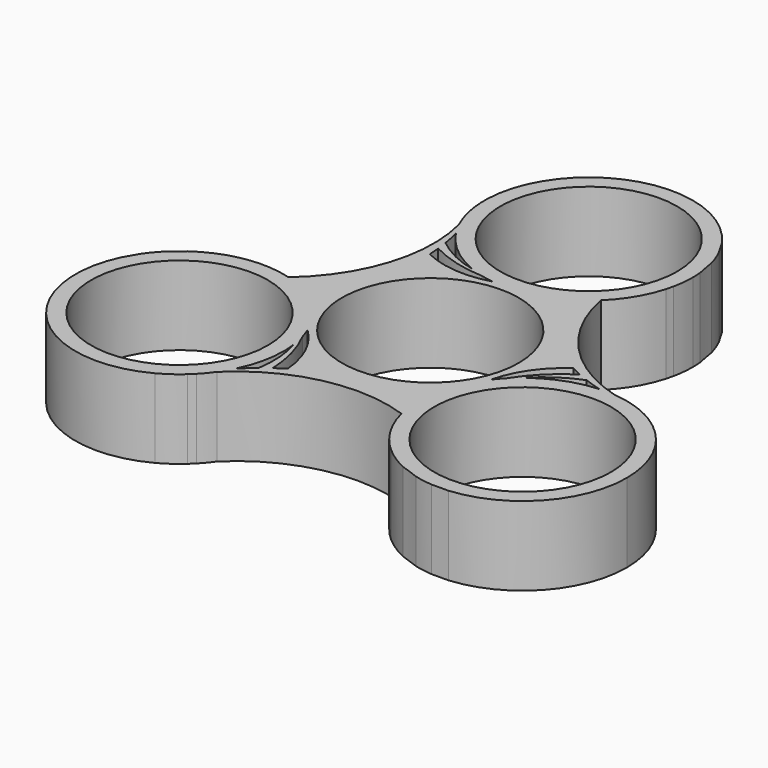
from build123d import *

# Parameters (mm, degrees)
F0_R     = 11.2
F1_DEPTH = 10


with BuildPart() as f1:
    # F0 (on Top) → F1 (new body)
    with BuildSketch(Plane.XY):
        with BuildLine():
            ThreePointArc((-3.260381, 12.308222), (-4.08829, 12.548299), (-4.898764, 12.841902))
            ThreePointArc((-4.898764, 12.841902), (-7.873837, 13.885182), (-10.533641, 15.577793))
            ThreePointArc((-10.533641, 15.577793), (-10.432312, 14.889978), (-10.350403, 14.199581))
            ThreePointArc((-10.350403, 14.199581), (-6.9123, 12.853141), (-3.260381, 12.308222))
        make_face()
        with BuildLine():
            ThreePointArc((-10.999331, 17.801648), (-11.517235, 18.649945), (-11.969844, 19.534805))
            ThreePointArc((-11.969844, 19.534805), (-12.253411, 8.962243), (-18.075311, 0.132465))
            ThreePointArc((-18.075311, 0.132465), (-16.04011, -0.642041), (-14.159937, -1.740609))
            ThreePointArc((-14.159937, -1.740609), (-11.356021, 4.229127), (-10.233904, 10.7284))
            ThreePointArc((-10.233904, 10.7284), (-10.217244, 11.71927), (-10.240391, 12.710009))
            ThreePointArc((-10.240391, 12.710009), (-10.284122, 13.455628), (-10.350403, 14.199581))
            ThreePointArc((-10.350403, 14.199581), (-10.432312, 14.889978), (-10.533641, 15.577793))
            ThreePointArc((-10.533641, 15.577793), (-10.740872, 16.695084), (-10.999331, 17.801648))
        make_face()
        with BuildLine():
            ThreePointArc((-25.815076, 0.0045), (-27.634187, -0.740376), (-29.322511, -1.747138))
            ThreePointArc((-29.322511, -1.747138), (-30.235928, -2.541319), (-31.167579, -3.314027))
            ThreePointArc((-31.167579, -3.314027), (-31.944836, -4.181143), (-32.642648, -5.113387))
            Line((-32.642648, -5.113387), (-33.685691, -6.940824))
            ThreePointArc((-33.685691, -6.940824), (-30.831382, -22.116455), (-15.530856, -24.199898))
            ThreePointArc((-15.530856, -24.199898), (-14.161107, -23.359441), (-12.903641, -22.358761))
            ThreePointArc((-12.903641, -22.358761), (-12.582952, -22.041715), (-12.254476, -21.732744))
            ThreePointArc((-12.254476, -21.732744), (-11.562129, -20.959176), (-10.932716, -20.133592))
            ThreePointArc((-10.932716, -20.133592), (-10.392709, -19.299191), (-9.917014, -18.426525))
            ThreePointArc((-9.917014, -18.426525), (-8.886316, -15.568046), (-8.536572, -12.549615))
            ThreePointArc((-8.536572, -12.549615), (-8.57048, -11.604081), (-8.672031, -10.663405))
            ThreePointArc((-8.672031, -10.663405), (-8.823001, -9.814713), (-9.029042, -8.977684))
            ThreePointArc((-9.029042, -8.977684), (-9.262483, -8.232543), (-9.539575, -7.50251))
            ThreePointArc((-9.539575, -7.50251), (-9.896819, -6.7135), (-10.305036, -5.949615))
            ThreePointArc((-10.305036, -5.949615), (-12.002273, -3.634267), (-14.159937, -1.740609))
            ThreePointArc((-14.159937, -1.740609), (-16.04011, -0.642041), (-18.075311, 0.132465))
            ThreePointArc((-18.075311, 0.132465), (-21.503799, 0.648332), (-24.948347, 0.253685))
            ThreePointArc((-24.948347, 0.253685), (-25.380161, 0.123701), (-25.815076, 0.0045))
        make_face()
        with Locations((-21.736572, -12.549615)):
            Circle(F0_R, mode=Mode.SUBTRACT)
        with BuildLine():
            ThreePointArc((-10.240391, 12.710009), (-10.217244, 11.71927), (-10.233904, 10.7284))
            ThreePointArc((-10.233904, 10.7284), (-5.051167, 10.738809), (0, 11.899231))
            ThreePointArc((0, 11.899231), (-0.865652, 11.927646), (-1.727577, 12.012769))
            ThreePointArc((-1.727577, 12.012769), (-6.049129, 11.566016), (-10.240391, 12.710009))
        make_face()
        with BuildLine():
            ThreePointArc((9.152374, 15.587446), (7.464031, 14.212163), (5.572557, 13.13317))
            ThreePointArc((5.572557, 13.13317), (9.340542, 7.720039), (14.408019, 3.498621))
            ThreePointArc((14.408019, 3.498621), (15.257807, 2.988758), (16.127386, 2.513434))
            ThreePointArc((16.127386, 2.513434), (16.794976, 2.178497), (17.472399, 1.863922))
            ThreePointArc((17.472399, 1.863922), (18.111255, 1.589658), (18.757585, 1.333505))
            ThreePointArc((18.757585, 1.333505), (19.828803, 0.954326), (20.916345, 0.624876))
            ThreePointArc((20.916345, 0.624876), (21.909944, 0.649246), (22.90256, 0.598786))
            ThreePointArc((22.90256, 0.598786), (13.888235, 6.130644), (9.152374, 15.587446))
        make_face()
        with BuildLine():
            ThreePointArc((-10.233904, 10.7284), (-11.356021, 4.229127), (-14.159937, -1.740609))
            ThreePointArc((-14.159937, -1.740609), (-12.002273, -3.634267), (-10.305036, -5.949615))
            ThreePointArc((-10.305036, -5.949615), (-6.774498, -9.743843), (-4.174115, -14.227021))
            ThreePointArc((-4.174115, -14.227021), (2.015479, -11.949166), (8.587381, -11.392561))
            ThreePointArc((8.587381, -11.392561), (9.148504, -8.57714), (10.305036, -5.949615))
            ThreePointArc((10.305036, -5.949615), (11.825665, -0.994965), (14.408019, 3.498621))
            ThreePointArc((14.408019, 3.498621), (9.340542, 7.720039), (5.572557, 13.13317))
            ThreePointArc((5.572557, 13.13317), (2.853769, 12.211407), (0, 11.899231))
            ThreePointArc((0, 11.899231), (-5.051167, 10.738809), (-10.233904, 10.7284))
        make_face()
        Circle(F0_R, mode=Mode.SUBTRACT)
        with BuildLine():
            ThreePointArc((8.587381, -11.392561), (2.015479, -11.949166), (-4.174115, -14.227021))
            ThreePointArc((-4.174115, -14.227021), (-5.040564, -14.708027), (-5.886995, -15.223443))
            ThreePointArc((-5.886995, -15.223443), (-6.510854, -15.634125), (-7.121996, -16.063503))
            ThreePointArc((-7.121996, -16.063503), (-7.678943, -16.479636), (-8.223944, -16.911297))
            ThreePointArc((-8.223944, -16.911297), (-9.087931, -17.64941), (-9.917014, -18.426525))
            ThreePointArc((-9.917014, -18.426525), (-10.392709, -19.299191), (-10.932716, -20.133592))
            ThreePointArc((-10.932716, -20.133592), (-1.634824, -15.092886), (8.922937, -15.719911))
            ThreePointArc((8.922937, -15.719911), (8.576079, -13.570122), (8.587381, -11.392561))
        make_face()
        with BuildLine():
            ThreePointArc((-7.121996, -16.063503), (-7.674996, -12.412798), (-9.029042, -8.977684))
            ThreePointArc((-9.029042, -8.977684), (-8.823001, -9.814713), (-8.672031, -10.663405))
            ThreePointArc((-8.672031, -10.663405), (-8.088002, -13.761534), (-8.223944, -16.911297))
            ThreePointArc((-8.223944, -16.911297), (-7.678943, -16.479636), (-7.121996, -16.063503))
        make_face()
        with BuildLine():
            ThreePointArc((-4.174115, -14.227021), (-6.774498, -9.743843), (-10.305036, -5.949615))
            ThreePointArc((-10.305036, -5.949615), (-9.896819, -6.7135), (-9.539575, -7.50251))
            ThreePointArc((-9.539575, -7.50251), (-6.991899, -11.021707), (-5.886995, -15.223443))
            ThreePointArc((-5.886995, -15.223443), (-5.040564, -14.708027), (-4.174115, -14.227021))
        make_face()
        with BuildLine():
            ThreePointArc((12.289423, -3.330538), (12.911291, -2.733587), (13.570796, -2.178497))
            ThreePointArc((13.570796, -2.178497), (15.961839, -0.123648), (18.757585, 1.333505))
            ThreePointArc((18.757585, 1.333505), (18.111255, 1.589658), (17.472399, 1.863922))
            ThreePointArc((17.472399, 1.863922), (14.587297, -0.440343), (12.289423, -3.330538))
        make_face()
        with BuildLine():
            ThreePointArc((14.408019, 3.498621), (11.825665, -0.994965), (10.305036, -5.949615))
            ThreePointArc((10.305036, -5.949615), (10.76247, -5.214146), (11.267152, -4.510259))
            ThreePointArc((11.267152, -4.510259), (13.041028, -0.544309), (16.127386, 2.513434))
            ThreePointArc((16.127386, 2.513434), (15.257807, 2.988758), (14.408019, 3.498621))
        make_face()
        with BuildLine():
            ThreePointArc((34.936572, -12.549615), (33.279164, -6.145823), (28.723154, -1.350166))
            ThreePointArc((28.723154, -1.350166), (27.310423, -0.584158), (25.815076, 0.0045))
            ThreePointArc((25.815076, 0.0045), (25.380161, 0.123701), (24.948347, 0.253685))
            ThreePointArc((24.948347, 0.253685), (23.932244, 0.466491), (22.90256, 0.598786))
            ThreePointArc((22.90256, 0.598786), (21.909944, 0.649246), (20.916345, 0.624876))
            ThreePointArc((20.916345, 0.624876), (17.030003, -0.21721), (13.570796, -2.178497))
            ThreePointArc((13.570796, -2.178497), (12.911291, -2.733587), (12.289423, -3.330538))
            ThreePointArc((12.289423, -3.330538), (11.760833, -3.905274), (11.267152, -4.510259))
            ThreePointArc((11.267152, -4.510259), (10.76247, -5.214146), (10.305036, -5.949615))
            ThreePointArc((10.305036, -5.949615), (9.148504, -8.57714), (8.587381, -11.392561))
            ThreePointArc((8.587381, -11.392561), (8.576079, -13.570122), (8.922937, -15.719911))
            ThreePointArc((8.922937, -15.719911), (10.190428, -18.947002), (12.254476, -21.732744))
            ThreePointArc((12.254476, -21.732744), (12.582952, -22.041715), (12.903641, -22.358761))
            ThreePointArc((12.903641, -22.358761), (14.458278, -23.56172), (16.174322, -24.520471))
            ThreePointArc((16.174322, -24.520471), (17.31881, -24.914422), (18.453821, -25.334902))
            ThreePointArc((18.453821, -25.334902), (19.593394, -25.574468), (20.749647, -25.712669))
            Line((20.749647, -25.712669), (22.853775, -25.702252))
            ThreePointArc((22.853775, -25.702252), (31.457351, -21.479703), (34.936572, -12.549615))
        make_face()
        with Locations((21.736572, -12.549615)):
            Circle(F0_R, mode=Mode.SUBTRACT)
        with BuildLine():
            ThreePointArc((10.831916, 32.643076), (-3.737721, 37.758988), (-13.192299, 25.550065))
            ThreePointArc((-13.192299, 25.550065), (-13.149316, 23.943599), (-12.911435, 22.354261))
            ThreePointArc((-12.911435, 22.354261), (-12.797209, 21.918014), (-12.693871, 21.479059))
            ThreePointArc((-12.693871, 21.479059), (-12.370115, 20.492686), (-11.969844, 19.534805))
            ThreePointArc((-11.969844, 19.534805), (-11.517235, 18.649945), (-10.999331, 17.801648))
            ThreePointArc((-10.999331, 17.801648), (-8.326892, 14.857021), (-4.898764, 12.841902))
            ThreePointArc((-4.898764, 12.841902), (-4.08829, 12.548299), (-3.260381, 12.308222))
            ThreePointArc((-3.260381, 12.308222), (-2.49835, 12.137817), (-1.727577, 12.012769))
            ThreePointArc((-1.727577, 12.012769), (-0.865652, 11.927646), (0, 11.899231))
            ThreePointArc((0, 11.899231), (2.853769, 12.211407), (5.572557, 13.13317))
            ThreePointArc((5.572557, 13.13317), (7.464031, 14.212163), (9.152374, 15.587446))
            ThreePointArc((9.152374, 15.587446), (11.313372, 18.29867), (12.693871, 21.479059))
            ThreePointArc((12.693871, 21.479059), (12.797209, 21.918014), (12.911435, 22.354261))
            ThreePointArc((12.911435, 22.354261), (13.12766, 23.719183), (13.2, 25.099231))
            ThreePointArc((13.2, 25.099231), (13.187041, 25.683994), (13.14819, 26.267609))
            ThreePointArc((13.14819, 26.267609), (12.917117, 27.455741), (12.713758, 28.648929))
            ThreePointArc((12.713758, 28.648929), (12.351442, 29.755611), (11.893001, 30.826056))
            Line((11.893001, 30.826056), (10.831916, 32.643076))
        make_face()
        with Locations((0, 25.099231)):
            Circle(F0_R, mode=Mode.SUBTRACT)
    extrude(amount=F1_DEPTH)


solid = f1.part
